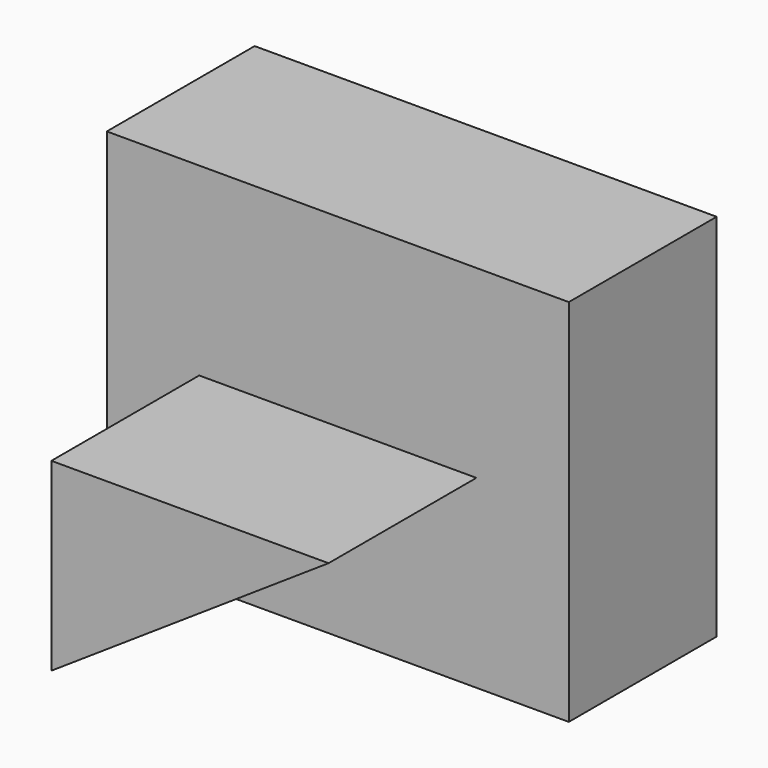
from build123d import *

# Parameters (mm, degrees)
F0_W     = 50
F0_H     = 40
F1_DEPTH = 20
F3_DEPTH = 20


with BuildPart() as f1:
    # F0 (on Front) → F1 (new body)
    with BuildSketch(Plane.XZ):
        with Locations((25, 20)):
            Rectangle(F0_W, F0_H)
    extrude(amount=F1_DEPTH)

    # F2 (on face) → F3 (join)
    with BuildSketch(Plane.XZ.offset(20)):
        Polygon((10, 20), (10, 0), (40, 20), align=None)
    extrude(amount=F3_DEPTH)


solid = f1.part
